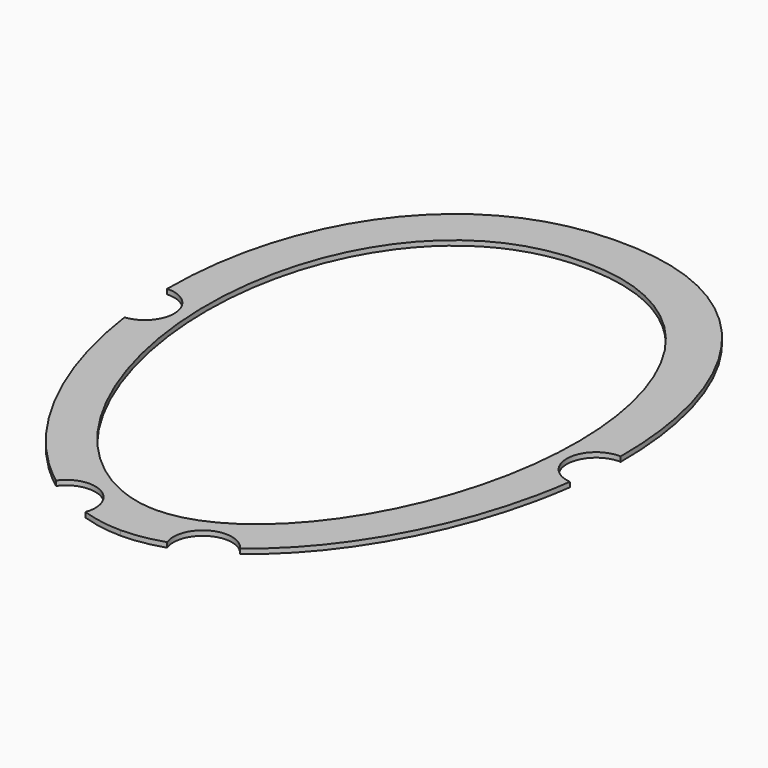
from build123d import *

# Parameters (mm, degrees)
PAD008_DEPTH    = 1
SKETCH022_R     = 6
POCKET011_DEPTH = 5
POCKET012_DEPTH = 1.001


with BuildPart() as part:
    # Sketch021 → Pad008 (new body)
    with BuildSketch(Plane.XY):
        with BuildLine():
            add(Edge.make_bspline(
                [(-2.1e-05, -64), (30.999979, -64.00001), (69.74999, -19.2), (69.75001, 44.8), (31.000021, 63.99999), (2.1e-05, 64), (-30.999979, 64.00001), (-69.74999, 44.8), (-69.75001, -19.2), (-31.000021, -63.99999), (-2.1e-05, -64)],
                knots=[0, 0, 0, 0, 0, 0, 1, 1, 1, 1, 1, 2, 2, 2, 2, 2, 2], degree=5, weights=[3, 1.8, 1.2, 1.2, 1.8, 3, 1.8, 1.2, 1.2, 1.8, 3]))
        make_face()
    extrude(amount=PAD008_DEPTH)

    # Sketch022 (on Face3 of Pad008) → Pocket011 (cut)
    with BuildSketch(Plane.XY.offset(1)):
        with Locations((-46.25, 0)):
            Circle(SKETCH022_R)
        with Locations((46.25, 0)):
            Circle(SKETCH022_R)
        with Locations((14, -60.5)):
            Circle(SKETCH022_R)
        with Locations((-14, -60.5)):
            Circle(SKETCH022_R)
    extrude(amount=-POCKET011_DEPTH, mode=Mode.SUBTRACT)

    # Sketch024 → Pocket012 (cut, through all)
    with BuildSketch(Plane.XY.offset(1)):
        with BuildLine():
            add(Edge.make_bspline(
                [(-1.8e-05, -55), (25.333315, -55.000008), (56.999991, -16.5), (57.000009, 38.5), (25.333351, 54.999992), (1.8e-05, 55), (-25.333315, 55.000008), (-56.999991, 38.5), (-57.000009, -16.5), (-25.333351, -54.999992), (-1.8e-05, -55)],
                knots=[0, 0, 0, 0, 0, 0, 1, 1, 1, 1, 1, 2, 2, 2, 2, 2, 2], degree=5, weights=[3, 1.8, 1.2, 1.2, 1.8, 3, 1.8, 1.2, 1.2, 1.8, 3]))
        make_face()
    extrude(amount=-POCKET012_DEPTH, mode=Mode.SUBTRACT)


with BuildPart() as part_1:
    # Body005 placement: moved
    add(part.part.moved(Location((0, 0, 4))))


solid = part_1.part
